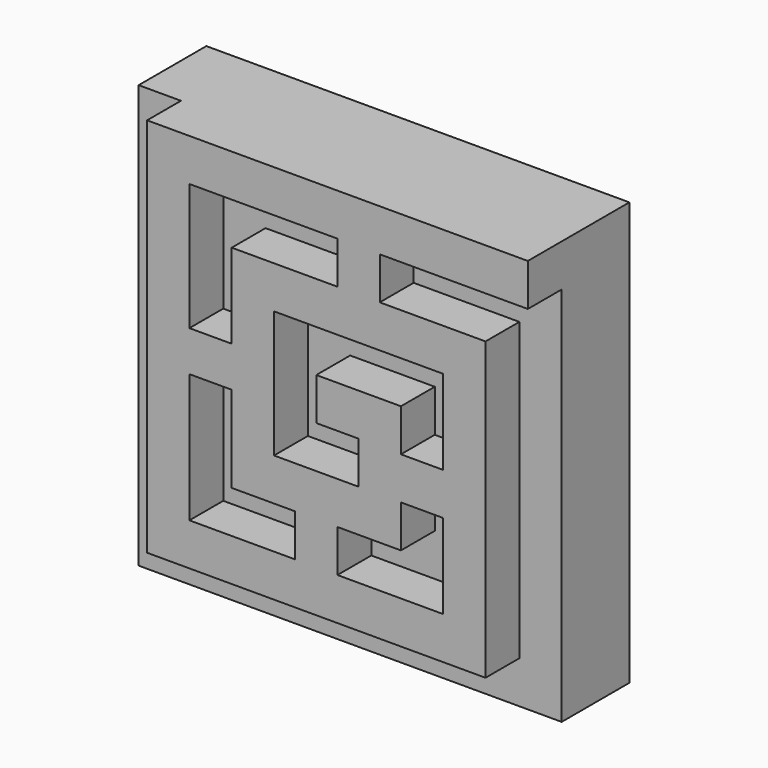
from build123d import *

# Parameters (mm, degrees)
F0_W     = 32.0205967701
F0_H     = 31.4794032299
F1_DEPTH = 12.7
F2_W     = 6.35
F2_H     = 6.35
F3_DEPTH = 6.35
F5_DEPTH = 6.35


with BuildPart() as f1:
    # F0 (on Front) → F1 (new body)
    with BuildSketch(Plane.XZ):
        with Locations((-16.0102983851, 15.7397016149)):
            Rectangle(F0_W, F0_H)
        Polygon((0, 31.4794032299), (0, 0), (-32.0205967701, 0), (-32.0205967701, -32.0205967701), (31.4794032299, -32.0205967701), (31.4794032299, 31.4794032299), align=None)
        with Locations((-16.0102983851, 15.7397016149)):
            Rectangle(F0_W, F0_H)
    extrude(amount=F1_DEPTH)

    # F2 (on face) → F3 (join)
    with BuildSketch(Plane.XZ.offset(12.7)):
        Polygon((31.4794032299, 25.1294032299), (31.4794032299, 31.4794032299), (-25.6705967701, 31.4794032299), (-25.6705967701, 25.1294032299), (-19.3205967701, 25.1294032299), align=None)
        Polygon((-19.3205967701, -19.3205967701), (-19.3205967701, 25.1294032299), (-25.6705967701, 25.1294032299), (-25.6705967701, -25.6705967701), (-19.3205967701, -25.6705967701), align=None)
        Polygon((18.7794032299, -19.3205967701), (-19.3205967701, -19.3205967701), (-19.3205967701, -25.6705967701), (25.1294032299, -25.6705967701), (25.1294032299, -19.3205967701), align=None)
        Polygon((18.7794032299, 12.4294032299), (18.7794032299, -19.3205967701), (25.1294032299, -19.3205967701), (25.1294032299, 18.7794032299), (18.7794032299, 18.7794032299), align=None)
        Polygon((-6.6205967701, 12.4294032299), (18.7794032299, 12.4294032299), (18.7794032299, 18.7794032299), (-12.9705967701, 18.7794032299), (-12.9705967701, 12.4294032299), align=None)
        Polygon((-6.6205967701, -6.6205967701), (-6.6205967701, 12.4294032299), (-12.9705967701, 12.4294032299), (-12.9705967701, -12.9705967701), (-6.6205967701, -12.9705967701), align=None)
        Polygon((6.0794032299, -6.6205967701), (-6.6205967701, -6.6205967701), (-6.6205967701, -12.9705967701), (12.4294032299, -12.9705967701), (12.4294032299, -6.6205967701), align=None)
        Polygon((6.0794032299, -0.2705967701), (6.0794032299, -6.6205967701), (12.4294032299, -6.6205967701), (12.4294032299, 6.0794032299), (6.0794032299, 6.0794032299), align=None)
        with Locations((2.9044032299, 2.9044032299)):
            Rectangle(F2_W, F2_H)
    extrude(amount=F3_DEPTH)

    # F4 (on face) → F5 (join)
    with BuildSketch(Plane.XZ.offset(12.7)):
        Polygon((2.9044032299, 18.7794032299), (6.0794032299, 18.7794032299), (9.2544032299, 18.7794032299), (9.2544032299, 25.1294032299), (2.9044032299, 25.1294032299), align=None)
        Polygon((-12.9705967701, 2.9044032299), (-12.9705967701, 6.0794032299), (-19.3205967701, 6.0794032299), (-19.3205967701, 0), (-12.9705967701, 0), align=None)
        Polygon((-3.4455967701, -12.9705967701), (-3.4455967701, -19.3205967701), (2.8999124188, -19.3205967701), (2.8999124188, -12.9705967701), (-0.2705967701, -12.9705967701), align=None)
        Polygon((12.4294032299, -6.6205967701), (18.7794032299, -6.6205967701), (18.7794032299, -0.2705967701), (12.4294032299, -0.2705967701), (12.4294032299, -3.4455967701), align=None)
    extrude(amount=F5_DEPTH)


solid = f1.part
